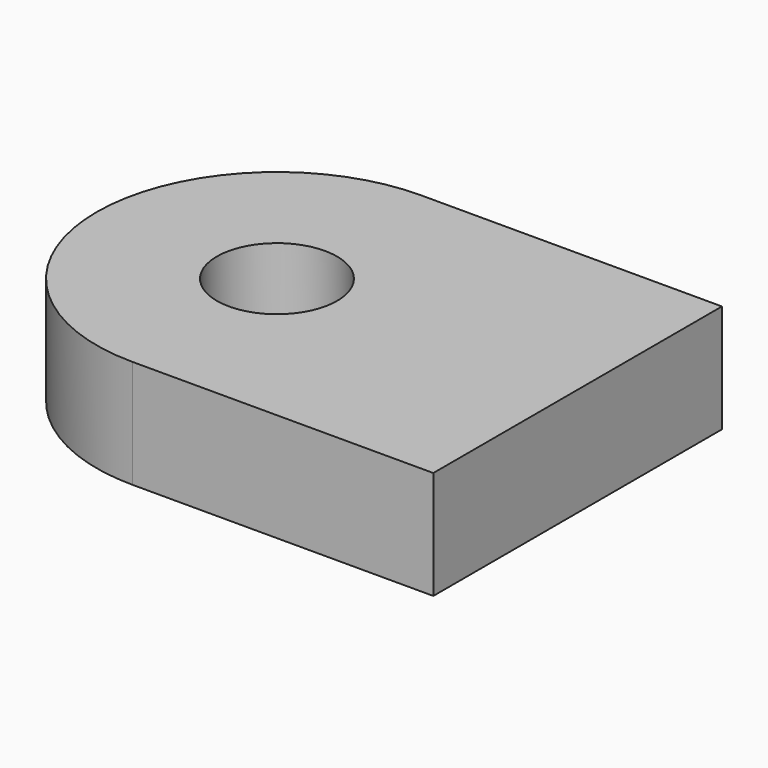
from build123d import *

# Parameters (mm, degrees)
F1_DEPTH = 2.286


with BuildPart() as f1:
    # F0 (on Top) → F1 (new body)
    with BuildSketch(Plane.XY):
        with BuildLine():
            ThreePointArc((0, 3.81), (1.115923, 1.115923), (3.81, 0))
            Line((3.81, 0), (10.16, 0))
            Line((10.16, 0), (10.16, 7.62))
            Line((10.16, 7.62), (3.81, 7.62))
            ThreePointArc((3.81, 7.62), (1.115923, 6.504077), (0, 3.81))
        make_face()
        with BuildLine():
            ThreePointArc((5.08, 3.81), (3.81, 2.54), (2.54, 3.81))
            ThreePointArc((2.54, 3.81), (3.81, 5.08), (5.08, 3.81))
        make_face(mode=Mode.SUBTRACT)
    extrude(amount=F1_DEPTH)


solid = f1.part
